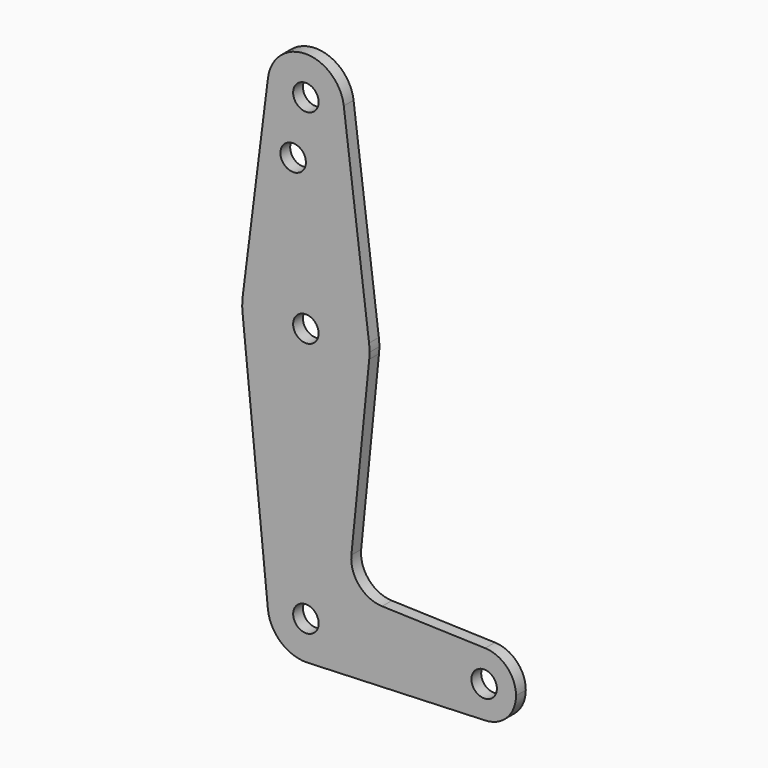
from build123d import *

# Parameters (mm, degrees)
F0_R     = 3.175
F1_DEPTH = 3.048


with BuildPart() as f1:
    # F0 (on Front) → F1 (new body)
    with BuildSketch(Plane.XZ):
        with BuildLine():
            ThreePointArc((-9.450293, 115.490625), (-0.596483, 104.793695), (9.525, 114.3))
            ThreePointArc((9.525, 114.3), (9.506305, 114.896483), (9.450293, 115.490625))
            ThreePointArc((9.450293, 115.490625), (0, 123.825), (-9.450293, 115.490625))
        make_face()
        with Locations((0, 114.3)):
            Circle(F0_R, mode=Mode.SUBTRACT)
        with BuildLine():
            ThreePointArc((9.450293, 115.490625), (9.506305, 114.896483), (9.525, 114.3))
            ThreePointArc((9.525, 114.3), (-0.596483, 104.793695), (-9.450293, 115.490625))
            Line((-9.450293, 115.490625), (-15.750488, 65.484375))
            ThreePointArc((-15.750488, 65.484375), (0, 79.375), (15.750488, 65.484375))
            Line((15.750488, 65.484375), (9.450293, 115.490625))
        make_face()
        with Locations((-3.175, 100.0252)):
            Circle(F0_R, mode=Mode.SUBTRACT)
        with BuildLine():
            ThreePointArc((15.795971, 61.917935), (0.001952, 47.625), (-15.795581, 61.914049))
            Line((-15.795581, 61.914049), (-9.469522, -1.091556))
            ThreePointArc((-9.469522, -1.091556), (-0.468555, 9.373094), (9.532827, -0.139986))
            ThreePointArc((9.532827, -0.139986), (6.872663, -6.742989), (0.378045, -9.657788))
            Line((0.378045, -9.657788), (44.758515, -7.931502))
            ThreePointArc((44.758515, -7.931502), (36.512539, -0.025002), (44.708543, 7.933288))
            Line((44.708543, 7.933288), (18.999844, 8.771127))
            ThreePointArc((18.999844, 8.771127), (13.27759, 11.479667), (11.348179, 17.509407))
            Line((11.348179, 17.509407), (15.795971, 61.917935))
        make_face()
        with BuildLine():
            ThreePointArc((9.532827, -0.139986), (-0.468555, 9.373094), (-9.469522, -1.091556))
            ThreePointArc((-9.469522, -1.091556), (-6.243576, -7.326472), (0.378045, -9.657788))
            ThreePointArc((0.378045, -9.657788), (6.872663, -6.742989), (9.532827, -0.139986))
        make_face()
        with Locations((0.007827, -0.139986)):
            Circle(F0_R, mode=Mode.SUBTRACT)
        with BuildLine():
            ThreePointArc((15.875, 63.5), (15.843841, 64.494139), (15.750488, 65.484375))
            ThreePointArc((15.750488, 65.484375), (0, 79.375), (-15.750488, 65.484375))
            ThreePointArc((-15.750488, 65.484375), (-15.873734, 63.700484), (-15.795581, 61.914049))
            ThreePointArc((-15.795581, 61.914049), (0.001952, 47.625), (15.795971, 61.917935))
            ThreePointArc((15.795971, 61.917935), (15.85523, 62.707981), (15.875, 63.5))
        make_face()
        with Locations((0, 63.5)):
            Circle(F0_R, mode=Mode.SUBTRACT)
        with BuildLine():
            ThreePointArc((44.708543, 7.933288), (36.512539, -0.025002), (44.758515, -7.931502))
            ThreePointArc((44.758515, -7.931502), (50.170697, -5.502503), (52.3875, 0))
            ThreePointArc((52.3875, 0), (50.153337, 5.520494), (44.708543, 7.933288))
        make_face()
        with Locations((44.45, 0)):
            Circle(F0_R, mode=Mode.SUBTRACT)
    extrude(amount=F1_DEPTH)


solid = f1.part
